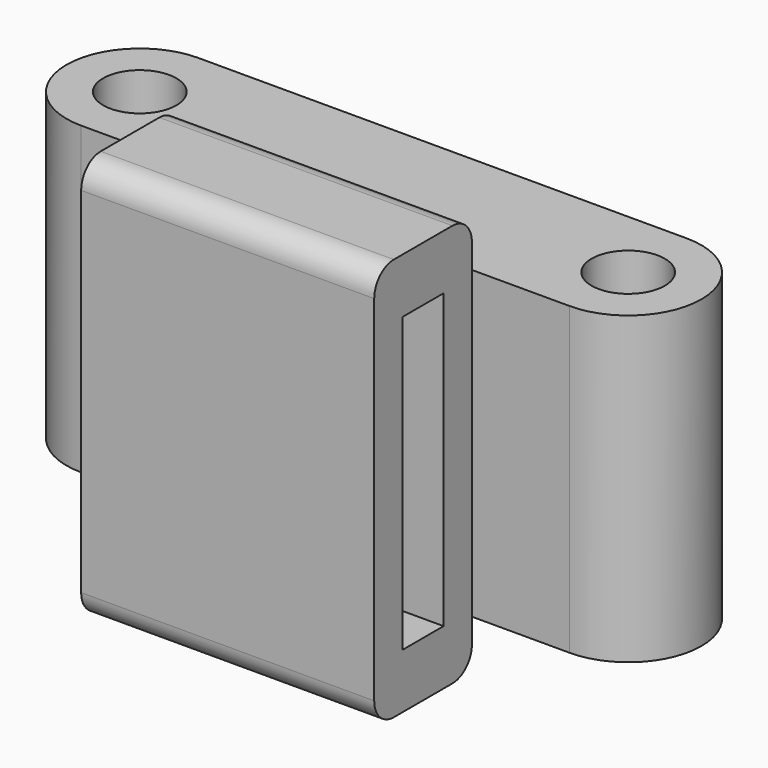
from build123d import *

# Parameters (mm, degrees)
F0_W     = 12
F0_H     = 16.5
F1_DEPTH = 5
F2_R     = 1.5
F3_DEPTH = 6.25
F4_W     = 2.1
F4_H     = 12
F5_DEPTH = 12
F6_R     = 1


with BuildPart() as f1:
    # F0 (on Front) → F1 (new body)
    with BuildSketch(Plane.XZ):
        Rectangle(F0_W, F0_H)
    extrude(amount=F1_DEPTH)

    # F2 (on Top) → F3 (join, symmetric)
    with BuildSketch(Plane.XY):
        with BuildLine():
            Line((-10, 0), (10, 0))
            ThreePointArc((10, 0), (13, 3), (10, 6))
            Line((10, 6), (-10, 6))
            ThreePointArc((-10, 6), (-13, 3), (-10, 0))
        make_face()
        with Locations((-10, 3)):
            Circle(F2_R, mode=Mode.SUBTRACT)
        with Locations((10, 3)):
            Circle(F2_R, mode=Mode.SUBTRACT)
    extrude(amount=F3_DEPTH, both=True)

    # F4 (on face) → F5 (cut, through all)
    with BuildSketch(Plane(origin=(-6, 0, 0), x_dir=(0, -1, 0), z_dir=(-1, 0, 0))):
        with Locations((2.5, 0)):
            Rectangle(F4_W, F4_H)
    extrude(amount=-F5_DEPTH, mode=Mode.SUBTRACT)

    # F6
    f6_edges = [f1.edges().sort_by_distance(p)[0] for p in [
        (0, -5, 8.25),
        (0, 0, 8.25),
        (0, 0, -8.25),
        (0, -5, -8.25),
    ]]
    fillet(f6_edges, radius=F6_R)


solid = f1.part
